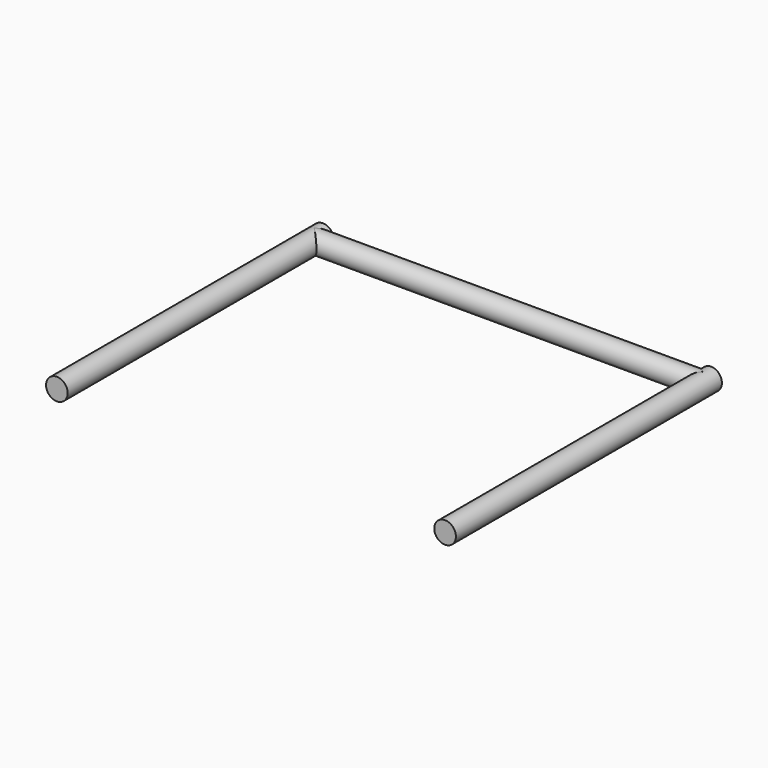
from build123d import *

# Parameters (mm, degrees)
F1_R = 22.225
F4_R = 22.225


with BuildPart() as f5:
    # F5: sweep along a path in F3
    with BuildLine(Plane(origin=(0, 0, -387.35), x_dir=(1, 0, 0), z_dir=(0, 0, -1))) as f5_path:
        Line((-398.4625, 0), (-398.4625, -660.4))
        Line((-398.4625, -660.4), (-398.4625, -682.625))
    # F1 (on Front) → F5 (sweep)
    with BuildSketch(Plane.XZ):
        with Locations((-398.4625, -387.35)):
            Circle(F1_R)
    sweep(path=f5_path.line)


with BuildPart() as f6:
    # F6: sweep along a path in F3
    with BuildLine(Plane(origin=(0, 0, -387.35), x_dir=(1, 0, 0), z_dir=(0, 0, -1))) as f6_path:
        Line((398.4625, 0), (398.4625, -660.4))
        Line((398.4625, -660.4), (398.4625, -682.625))
    # F1 (on Front) → F6 (sweep)
    with BuildSketch(Plane.XZ):
        with Locations((398.4625, -387.35)):
            Circle(F1_R)
    sweep(path=f6_path.line)


with BuildPart() as f7:
    # F7: sweep along a path in F3
    with BuildLine(Plane(origin=(0, 0, -387.35), x_dir=(1, 0, 0), z_dir=(0, 0, -1))) as f7_path:
        Line((398.4625, -660.4), (-398.4625, -660.4))
    # F4 (on Right) → F7 (sweep)
    with BuildSketch(Plane.YZ):
        with Locations((660.4, -387.35)):
            Circle(F4_R)
    sweep(path=f7_path.line)


solid = Compound([f5.part, f6.part, f7.part])
